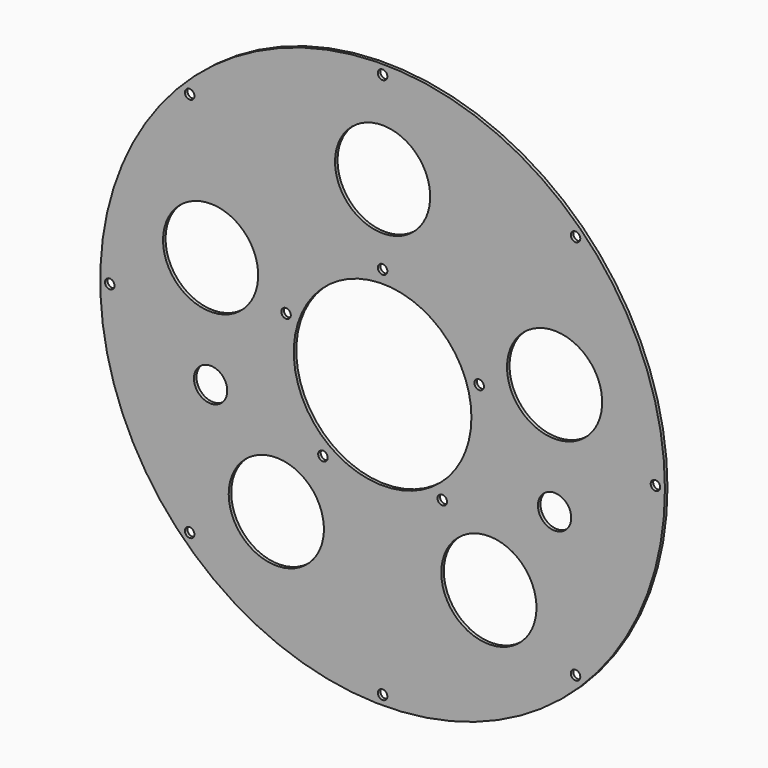
from build123d import *

# Parameters (mm, degrees)
F0_R     = 89
F0_R_2   = 28
F1_DEPTH = 1
F2_D     = 10.5
F3_D     = 30
F4_D     = 3
F6_D     = 3


with BuildPart() as f1:
    # F0 (on Front) → F1 (new body)
    with BuildSketch(Plane.XZ):
        Circle(F0_R)
        Circle(F0_R_2, mode=Mode.SUBTRACT)
    extrude(amount=-F1_DEPTH)

    # F2 (through all)
    with Locations(Plane.XZ):
        with Locations((-54.2102163981, -17.6139841623), (54.2102163981, -17.6139841623)):
            Hole(F2_D / 2)

    # F3 (through all)
    with Locations(Plane.XZ):
        with Locations((-54.2102264595, 17.6139531965), (0, 57), (54.2102264595, 17.6139531965), (33.5032664595, -46.1143268035), (-33.5032664595, -46.1143268035)):
            Hole(F3_D / 2)

    # F4 (through all)
    with Locations(Plane.XZ):
        with Locations((-30.4338113457, 9.8885351278), (0, 32), (30.4338113457, 9.8885351278), (18.8088513457, -25.8887448722), (-18.8088513457, -25.8887448722)):
            Hole(F4_D / 2)

    # F6 (through all)
    with Locations(Plane.XZ):
        with Locations((-60.811183182, 60.811183182), (0, 86), (60.811183182, 60.811183182), (86, 0), (60.811183182, -60.811183182), (0, -86), (-60.811183182, -60.811183182), (-86, 0)):
            Hole(F6_D / 2)


solid = f1.part
